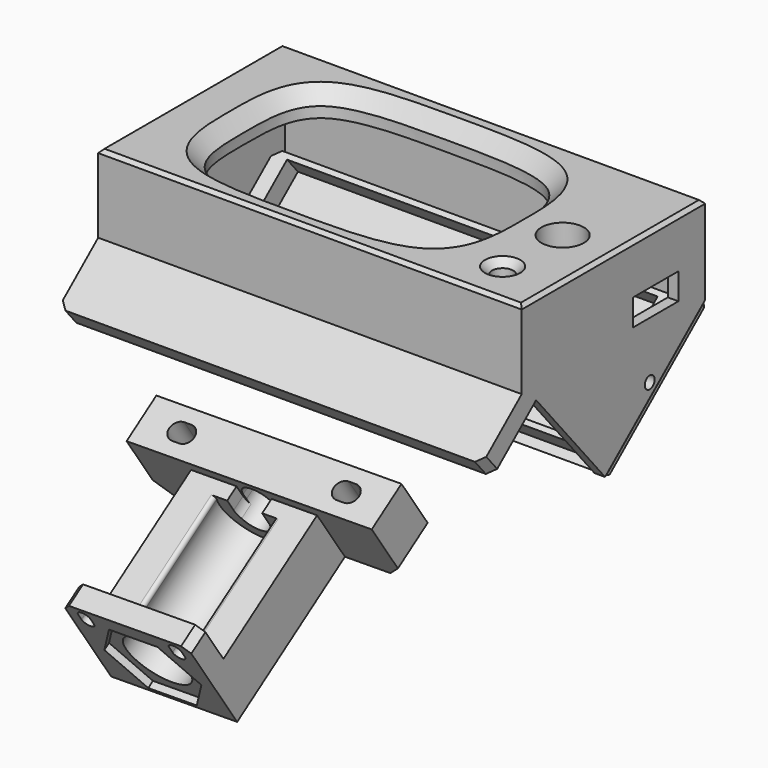
from build123d import *

# Parameters (mm, degrees)
SKETCH_W                = 120
SKETCH_H                = 65
PAD_DEPTH               = 25
SKETCH004_R             = 3
POCKET001_DEPTH         = 25.001
SKETCH001_R             = 6
POCKET_DEPTH            = 25.001
SKETCH005_W             = 114
SKETCH005_H             = 60
POCKET002_DEPTH         = 18
CHAMFER_SIZE            = 4
SKETCH006_R             = 3.5
PAD001_DEPTH            = 4.5
SKETCH007_R             = 1.4
POCKET003_DEPTH         = 8
SKETCH008_W             = 16
SKETCH008_H             = 6.5
POCKET004_DEPTH         = 9
SKETCH009_W             = 28
SKETCH009_H             = 4
POCKET005_DEPTH         = 5
PAD002_DEPTH            = 120
SKETCH015_W             = 114
SKETCH015_H             = 60
POCKET006_DEPTH         = 47
SKETCH016_W             = 16
SKETCH016_H             = 7.5
POCKET007_DEPTH         = 9
CHAMFER001_SIZE         = 2
SKETCH022_R             = 1.75
POCKET010_DEPTH         = 120.001
CHAMFER005_SIZE         = 2
CHAMFER006_SIZE         = 2
SKETCH023_R             = 6.5
POCKET011_DEPTH         = 2.3
CHAMFER007_SIZE         = 1
SKETCH018_W             = 120
SKETCH018_H             = 45
PAD003_DEPTH            = 3
SKETCH019_W             = 113.5
SKETCH019_H             = 40
PAD004_DEPTH            = 6
SKETCH020_R             = 1.4
POCKET008_DEPTH         = 116.751
POCKET012_DEPTH         = 376.952357
CHAMFER008_SIZE         = 2
SKETCH021_W             = 105
SKETCH021_H             = 37
POCKET013_DEPTH         = 6
CHAMFER009_SIZE         = 2
CHAMFER010_SIZE         = 1
CHAMFER011_SIZE         = 1
CHAMFER012_SIZE         = 2
BODY001_PLACEMENT_ANGLE = 50
SKETCH029_W             = 70
SKETCH029_H             = 20
PAD005_DEPTH            = 12.7
SKETCH012_W             = 36
SKETCH012_H             = 17
PAD006_DEPTH            = 40
POCKET016_DEPTH         = 40
POCKET014_DEPTH         = 22.994766
SKETCH027_W             = 36
SKETCH027_H             = 30
PAD007_DEPTH            = 6
POCKET017_DEPTH         = 2
POCKET015_DEPTH         = 22
POCKET015_DEPTH_BACK    = 100
SKETCH013_R             = 9
POCKET018_DEPTH         = 40
FILLET_R                = 1
CHAMFER014_SIZE         = 2
CHAMFER013_SIZE         = 4
BODY002_ROLL_ANGLE      = -123.951696
BODY002_PITCH_ANGLE     = 0.828143
BODY002_PLACEMENT_ANGLE = 179.441913


with BuildPart() as screenbox:
    # Sketch → Pad (new body)
    with BuildSketch(Plane.XY):
        with Locations((7, 0)):
            Rectangle(SKETCH_W, SKETCH_H)
        with BuildLine():
            add(Edge.make_bspline(
                [(0, 25.038668), (-12.580271, 25.038668), (-37.740814, 25.116003), (-37.5, 0), (-37.740814, -25.116003), (0, -25), (37.740814, -25.116003), (37.5, 0), (37.740814, 25.116003), (12.580271, 25.038668), (0, 25.038668)],
                knots=[0, 0, 0, 0, 0.125, 0.25, 0.375, 0.5, 0.625, 0.75, 0.875, 1, 1, 1, 1], degree=3))
        make_face(mode=Mode.SUBTRACT)
    extrude(amount=PAD_DEPTH)

    # Sketch004 → Pocket001 (cut, through all)
    with BuildSketch(Plane(origin=(0, 0, 0), x_dir=(1, 0, 0), z_dir=(0, 0, -1))):
        with Locations((52, 20.5)):
            Circle(SKETCH004_R)
    extrude(amount=-POCKET001_DEPTH, mode=Mode.SUBTRACT)

    # Sketch001 (on Face5 of Pocket001) → Pocket (cut, through all)
    with BuildSketch(Plane.XY.offset(25)):
        with Locations((53, -0.5)):
            Circle(SKETCH001_R)
    extrude(amount=-POCKET_DEPTH, mode=Mode.SUBTRACT)

    # Sketch005 (on Face4 of Pocket) → Pocket002 (cut)
    with BuildSketch(Plane(origin=(0, 0, 0), x_dir=(1, 0, 0), z_dir=(0, 0, -1))):
        with Locations((7, 0)):
            Rectangle(SKETCH005_W, SKETCH005_H)
    extrude(amount=-POCKET002_DEPTH, mode=Mode.SUBTRACT)

    # Chamfer
    chamfer_edges = [screenbox.edges().sort_by_distance(p)[0] for p in [
        (0, -25.038668, 25),
    ]]
    chamfer(chamfer_edges, length=CHAMFER_SIZE)

    # Sketch006 (on Face11 of Chamfer) → Pad001 (join)
    with BuildSketch(Plane(origin=(0, 0, 18), x_dir=(1, 0, 0), z_dir=(0, 0, -1))):
        with Locations((-45.5, 25)):
            Circle(SKETCH006_R)
        with Locations((-45.5, -25)):
            Circle(SKETCH006_R)
        with Locations((58.5, -25)):
            Circle(SKETCH006_R)
        with Locations((58.5, 25)):
            Circle(SKETCH006_R)
    extrude(amount=PAD001_DEPTH)

    # Sketch007 (on Face22 of Pad001) → Pocket003 (cut)
    with BuildSketch(Plane(origin=(0, 0, 13.5), x_dir=(1, 0, 0), z_dir=(0, 0, -1))):
        with Locations((-45.5, 25)):
            Circle(SKETCH007_R)
        with Locations((58.5, 25)):
            Circle(SKETCH007_R)
        with Locations((58.5, -25)):
            Circle(SKETCH007_R)
        with Locations((-45.5, -25)):
            Circle(SKETCH007_R)
    extrude(amount=-POCKET003_DEPTH, mode=Mode.SUBTRACT)

    # Sketch008 (on Face5 of Pocket003) → Pocket004 (cut)
    with BuildSketch(Plane.YZ.offset(67)):
        with Locations((15, 3.25)):
            Rectangle(SKETCH008_W, SKETCH008_H)
    extrude(amount=-POCKET004_DEPTH, mode=Mode.SUBTRACT)

    # Sketch009 (on Face4 of Pocket004) → Pocket005 (cut)
    with BuildSketch(Plane(origin=(-53, 0, 0), x_dir=(0, -1, 0), z_dir=(-1, 0, 0))):
        with Locations((0, 10.5)):
            Rectangle(SKETCH009_W, SKETCH009_H)
    extrude(amount=-POCKET005_DEPTH, mode=Mode.SUBTRACT)

    # Sketch010 (on Face4 of Pocket005) → Pad002 (join)
    with BuildSketch(Plane(origin=(-53, 0, 0), x_dir=(0, -1, 0), z_dir=(-1, 0, 0))):
        Polygon((2.976444, -29.768271), (27.402373, -0.658582), (42.723262, -13.514335), (46.579988, -8.918068), (27.480858, 7.108005), (-32.5, 7.108005), (-32.5, 0), align=None)
    extrude(amount=-PAD002_DEPTH)

    # Sketch015 → Pocket006 (cut)
    with BuildSketch(Plane(origin=(0, 0, 13.5), x_dir=(1, 0, 0), z_dir=(0, 0, -1))):
        with Locations((7, 0)):
            Rectangle(SKETCH015_W, SKETCH015_H)
    extrude(amount=POCKET006_DEPTH, mode=Mode.SUBTRACT)

    # Sketch016 (on Face5 of Pocket006) → Pocket007 (cut)
    with BuildSketch(Plane.YZ.offset(67)):
        with Locations((15, 7.25)):
            Rectangle(SKETCH016_W, SKETCH016_H)
    extrude(amount=-POCKET007_DEPTH, mode=Mode.SUBTRACT)

    # Chamfer001
    chamfer001_edges = [screenbox.edges().sort_by_distance(p)[0] for p in [
        (49, -20.5, 25),
    ]]
    chamfer(chamfer001_edges, length=CHAMFER001_SIZE)

    # Sketch022 (on Face25 of Chamfer001) → Pocket010 (cut, through all)
    with BuildSketch(Plane(origin=(-53, 0, 0), x_dir=(0, -1, 0), z_dir=(-1, 0, 0))):
        with Locations((-12.833415, -12.586002)):
            Circle(SKETCH022_R)
    extrude(amount=-POCKET010_DEPTH, mode=Mode.SUBTRACT)

    # Chamfer005
    chamfer005_edges = [screenbox.edges().sort_by_distance(p)[0] for p in [
        (67, -44.651625, -11.216201),
    ]]
    chamfer(chamfer005_edges, length=CHAMFER005_SIZE)

    # Chamfer006
    chamfer006_edges = [screenbox.edges().sort_by_distance(p)[0] for p in [
        (-53, -44.651625, -11.216201),
    ]]
    chamfer(chamfer006_edges, length=CHAMFER006_SIZE)

    # Sketch023 (on Face8 of Chamfer006) → Pocket011 (cut)
    with BuildSketch(Plane(origin=(0, -10.997712, 13.106563), x_dir=(1, 0, 0), z_dir=(0, 0.642788, -0.766044))):
        with Locations((-37, 32)):
            Circle(SKETCH023_R)
        with Locations((37, 32)):
            Circle(SKETCH023_R)
    extrude(amount=-POCKET011_DEPTH, mode=Mode.SUBTRACT)

    # Chamfer007
    chamfer007_edges = [screenbox.edges().sort_by_distance(p)[0] for p in [
        (7, 32.5, 25),
        (67, 0, 25),
        (7, -32.5, 25),
        (-53, 0, 25),
    ]]
    chamfer(chamfer007_edges, length=CHAMFER007_SIZE)


with BuildPart() as boxcap:
    # Sketch018 → Pad003 (new body)
    with BuildSketch(Plane.XZ):
        Rectangle(SKETCH018_W, SKETCH018_H)
    extrude(amount=PAD003_DEPTH)

    # Sketch019 (on Face6 of Pad003) → Pad004 (join)
    with BuildSketch(Plane.XZ.offset(3)):
        Rectangle(SKETCH019_W, SKETCH019_H)
    extrude(amount=PAD004_DEPTH)

    # Sketch020 (on Face8 of Pad004) → Pocket008 (cut, through all)
    with BuildSketch(Plane(origin=(56.75, 0, 0), x_dir=(0, 0, 1), z_dir=(1, 0, 0))):
        with Locations((0, 6)):
            Circle(SKETCH020_R)
    extrude(amount=-POCKET008_DEPTH, mode=Mode.SUBTRACT)

    # Sketch024 (on Face3 of Pocket008) → Pocket012 (cut, through all)
    with BuildSketch(Plane(origin=(60, 0, 0), x_dir=(0, 0, 1), z_dir=(1, 0, 0))):
        Polygon((-22.5, 3), (-17.875456, -3.604533), (-35.516254, -3.604533), align=None)
    pocket012 = extrude(amount=-POCKET012_DEPTH, mode=Mode.SUBTRACT)

    # Mirrored: Pocket012 across Sketch024 V_Axis
    add(pocket012.mirror(Plane(origin=(60, 0, 0), x_dir=(1, 0, 0), z_dir=(0, 0, 1))), mode=Mode.SUBTRACT)

    # Chamfer008
    chamfer008_edges = [boxcap.edges().sort_by_distance(p)[0] for p in [
        (60, 0, 0),
        (-60, 0, 0),
    ]]
    chamfer(chamfer008_edges, length=CHAMFER008_SIZE)

    # Sketch021 → Pocket013 (cut)
    with BuildSketch(Plane.XZ.offset(9)):
        Rectangle(SKETCH021_W, SKETCH021_H)
    extrude(amount=-POCKET013_DEPTH, mode=Mode.SUBTRACT)

    # Chamfer009
    chamfer009_edges = [boxcap.edges().sort_by_distance(p)[0] for p in [
        (-56.75, -6, -20),
    ]]
    chamfer(chamfer009_edges, length=CHAMFER009_SIZE)

    # Chamfer010
    chamfer010_edges = [boxcap.edges().sort_by_distance(p)[0] for p in [
        (56.75, -6, -20),
    ]]
    chamfer(chamfer010_edges, length=CHAMFER010_SIZE)

    # Chamfer011
    chamfer011_edges = [boxcap.edges().sort_by_distance(p)[0] for p in [
        (56.75, -6, 20),
    ]]
    chamfer(chamfer011_edges, length=CHAMFER011_SIZE)

    # Chamfer012
    chamfer012_edges = [boxcap.edges().sort_by_distance(p)[0] for p in [
        (-56.75, -6, 20),
    ]]
    chamfer(chamfer012_edges, length=CHAMFER012_SIZE)


with BuildPart() as boxcap_1:
    # Body001 placement: moved
    add(boxcap.part.moved(Location((7, 16.629636, -17.350208))).rotate(Axis((7, 16.629636, -17.350208), (-1, 0, 0)), BODY001_PLACEMENT_ANGLE))


with BuildPart() as obj1:
    # Sketch029 → Pad005 (new body)
    with BuildSketch(Plane.XY):
        with Locations((-8, 8)):
            Rectangle(SKETCH029_W, SKETCH029_H)
    extrude(amount=PAD005_DEPTH)

    # Sketch012 (on Face6 of Pad005) → Pad006 (join)
    with BuildSketch(Plane.XY.offset(12.7)):
        with Locations((-8, 9.5)):
            Rectangle(SKETCH012_W, SKETCH012_H)
    extrude(amount=PAD006_DEPTH)

    # Sketch028 → Pocket016 (cut)
    with BuildSketch(Plane.XY.offset(52.7)):
        with BuildLine():
            ThreePointArc((-3, 5), (-8, 10), (-13, 5))
            Line((-13, -7.39), (-13, 5))
            Line((-3, -7.39), (-13, -7.39))
            Line((-3, 5), (-3, -7.39))
        make_face()
    extrude(amount=-POCKET016_DEPTH, mode=Mode.SUBTRACT)

    # Sketch025 → Pocket014 (cut, through all)
    with BuildSketch(Plane(origin=(0, 20.993766, 0), x_dir=(-1, 0, 0), z_dir=(0, 1, 0))):
        with BuildLine():
            ThreePointArc((-16.5, 8.95), (-19.1, 6.35), (-16.5, 3.75))
            Line((-16.5, 3.75), (-14.5, 3.75))
            ThreePointArc((-14.5, 3.75), (-11.9, 6.35), (-14.5, 8.95))
            Line((-16.5, 8.95), (-14.5, 8.95))
        make_face()
        with BuildLine():
            ThreePointArc((30.5, 8.95), (27.9, 6.35), (30.5, 3.75))
            Line((30.5, 3.75), (32.5, 3.75))
            ThreePointArc((32.5, 3.75), (35.1, 6.35), (32.5, 8.95))
            Line((30.5, 8.95), (32.5, 8.95))
        make_face()
    extrude(amount=-POCKET014_DEPTH, mode=Mode.SUBTRACT)

    # Sketch027 → Pad007 (join)
    with BuildSketch(Plane.XY.offset(52.7)):
        with Locations((-8, 3)):
            Rectangle(SKETCH027_W, SKETCH027_H)
        with BuildLine():
            ThreePointArc((-19.25, -7), (-21, -5.25), (-22.75, -7))
            Line((-22.75, -7), (-22.75, -9))
            ThreePointArc((-22.75, -9), (-21, -10.75), (-19.25, -9))
            Line((-19.25, -7), (-19.25, -9))
        make_face(mode=Mode.SUBTRACT)
        with BuildLine():
            ThreePointArc((6.75, -7), (5, -5.25), (3.25, -7))
            Line((3.25, -7), (3.25, -9))
            ThreePointArc((3.25, -9), (5, -10.75), (6.75, -9))
            Line((6.75, -7), (6.75, -9))
        make_face(mode=Mode.SUBTRACT)
    extrude(amount=PAD007_DEPTH)

    # Sketch026 → Pocket017 (cut)
    with BuildSketch(Plane.XY.offset(56.7)):
        Polygon((5.856406, 5), (-1.071797, 17), (-14.928203, 17), (-21.856406, 5), (-14.928203, -7), (-1.071797, -7), align=None)
    extrude(amount=POCKET017_DEPTH, mode=Mode.SUBTRACT)

    # Sketch030 → Pocket015 (cut, two sides)
    with BuildSketch(Plane.XY.offset(12.7)) as pocket015_sk:
        with BuildLine():
            ThreePointArc((-3.5, 6), (-8, 10.5), (-12.5, 6))
            Line((-12.5, 6), (-12.5, 4))
            ThreePointArc((-12.5, 4), (-8, -0.5), (-3.5, 4))
            Line((-3.5, 6), (-3.5, 4))
        make_face()
    extrude(amount=-POCKET015_DEPTH, mode=Mode.SUBTRACT)
    extrude(pocket015_sk.sketch, amount=POCKET015_DEPTH_BACK, mode=Mode.SUBTRACT)

    # Sketch013 (on Face29 of Pocket015) → Pocket018 (cut)
    with BuildSketch(Plane.XY.offset(56.7)):
        with Locations((-8, 5)):
            Circle(SKETCH013_R)
    extrude(amount=-POCKET018_DEPTH, mode=Mode.SUBTRACT)

    # Fillet
    fillet_edges = [obj1.edges().sort_by_distance(p)[0] for p in [
        (0.062258, 1, 34.7),
        (-16.062258, 1, 34.7),
    ]]
    fillet(fillet_edges, radius=FILLET_R)

    # Chamfer014
    chamfer014_edges = [obj1.edges().sort_by_distance(p)[0] for p in [
        (10, -12, 55.7),
        (-26, -12, 55.7),
    ]]
    chamfer(chamfer014_edges, length=CHAMFER014_SIZE)

    # Chamfer013
    chamfer013_edges = [obj1.edges().sort_by_distance(p)[0] for p in [
        (-43, 18, 6.35),
        (27, 18, 6.35),
    ]]
    chamfer(chamfer013_edges, length=CHAMFER013_SIZE)


with BuildPart() as obj1_1:
    # Body002 roll: moved
    add(obj1.part.rotate(Axis((0, 0, 0), (1, 0, 0)), BODY002_ROLL_ANGLE))


with BuildPart() as obj1_2:
    # Body002 pitch: moved
    add(obj1_1.part.rotate(Axis((0, 0, 0), (0, 1, 0)), BODY002_PITCH_ANGLE))


with BuildPart() as obj1_3:
    # Body002 placement: moved
    add(obj1_2.part.moved(Location((-0.401038, -43.00558, -24.805855))).rotate(Axis((-0.401038, -43.00558, -24.805855), (0, 0, 1)), BODY002_PLACEMENT_ANGLE))


solid = Compound([screenbox.part, boxcap_1.part, obj1_3.part])
